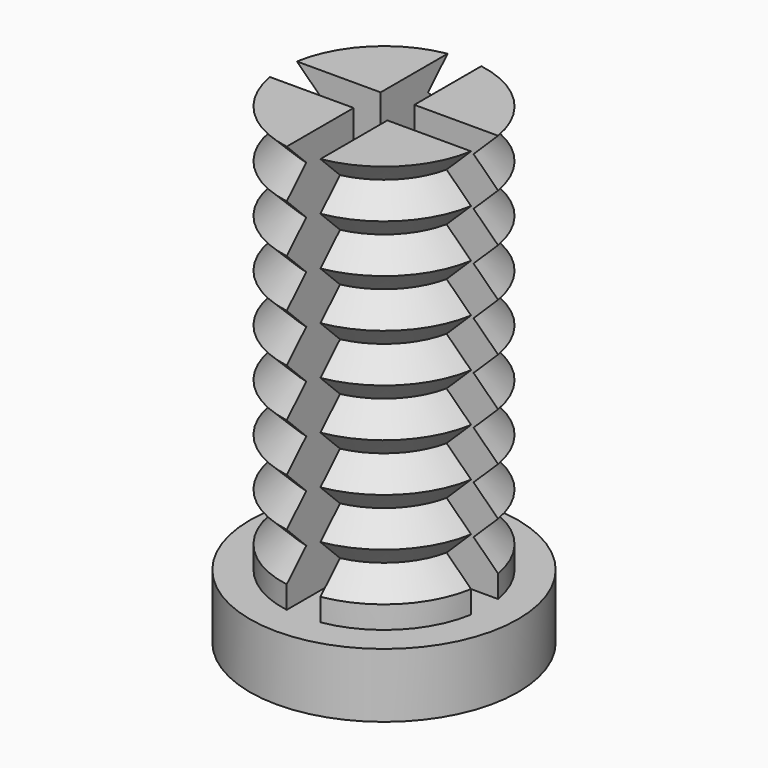
from build123d import *

# Parameters (mm, degrees)
SKETCH004_R         = 4.175
PAD003_DEPTH        = 2
SKETCH005_R         = 3.175
PAD004_DEPTH        = 12.7
POCKET001_DEPTH     = 12.701
LINEARPATTERN_COUNT = 8
LINEARPATTERN_PITCH = 1.5


with BuildPart() as part:
    # Sketch004 → Pad003 (new body)
    with BuildSketch(Plane.XY):
        Circle(SKETCH004_R)
    extrude(amount=PAD003_DEPTH)

    # Sketch005 (on DatumPlane) → Pad004 (join)
    with BuildSketch(Plane.XY.offset(2)):
        Circle(SKETCH005_R)
    extrude(amount=PAD004_DEPTH)

    # Sketch006 (on DatumPlane) → Pocket001 (cut, through all)
    with BuildSketch(Plane.XY.offset(2)):
        Polygon((13.225, 0.525), (0.525, 0.525), (0.525, 13.225), (-0.525, 13.225), (-0.525, 0.525), (-13.225, 0.525), (-13.225, -0.525), (-0.525, -0.525), (-0.525, -13.225), (0.525, -13.225), (0.525, -0.525), (13.225, -0.525), align=None)
    extrude(amount=POCKET001_DEPTH, mode=Mode.SUBTRACT)

    # Sketch007 (on DatumPlane) → Groove (revolve, cut)
    with BuildSketch(Plane.XZ):
        Polygon((3.175, 14.7), (2.425, 13.95), (3.175, 13.2), align=None)
    groove = revolve(axis=Axis((0, 0, 0), (0, 0, 1)), mode=Mode.SUBTRACT)

    # LinearPattern: Groove ×8
    with Locations(*[(0, 0, -i * LINEARPATTERN_PITCH) for i in range(1, LINEARPATTERN_COUNT)]):
        add(groove, mode=Mode.SUBTRACT)


solid = part.part
